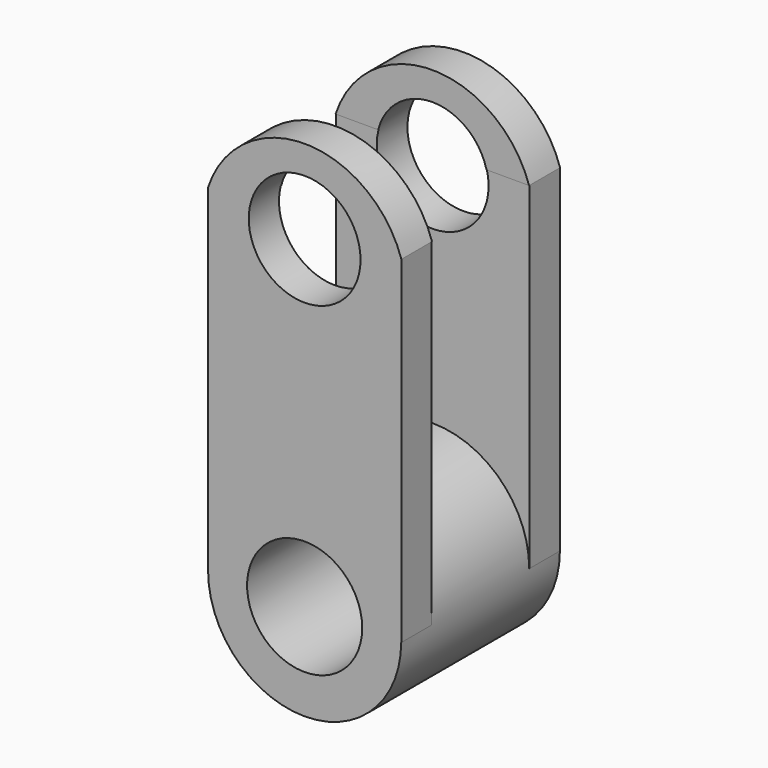
from build123d import *

# Parameters (mm, degrees)
F0_R           = 17.4912065647
F2_DEPTH       = 35.941
F1_W           = 6.9445110857
F1_H           = 61.1279271543
F3_DEPTH       = 17.526
F3_DEPTH_BACK  = 17.526
F1_W_2         = 6.845775526
F4_DEPTH       = 17.526
F4_DEPTH_BACK  = 17.526
F6_DEPTH       = 35.941
F8_DEPTH       = 25.4
F8_DEPTH_BACK  = 25.4
F9_R           = 10.1290533854
F9_R_2         = 10.4269018425
F10_DEPTH      = 38.1
F10_DEPTH_BACK = 38.1


with BuildPart() as f2:
    # F0 (on Front) → F2 (new body)
    with BuildSketch(Plane.XZ):
        Circle(F0_R)
    extrude(amount=-F2_DEPTH)

    # F1 (on Right) → F3 (join, two sides)
    with BuildSketch(Plane.YZ) as f3_sk:
        with Locations((32.4680674821, 30.5639635772)):
            Rectangle(F1_W, F1_H)
    extrude(amount=F3_DEPTH)
    extrude(f3_sk.sketch, amount=-F3_DEPTH_BACK)

    # F1 (on Right) → F4 (join, two sides)
    with BuildSketch(Plane.YZ) as f4_sk:
        with Locations((3.422887763, 30.5639635772)):
            Rectangle(F1_W_2, F1_H)
        with Locations((32.4680674821, 30.5639635772)):
            Rectangle(F1_W, F1_H)
    extrude(amount=F4_DEPTH)
    extrude(f4_sk.sketch, amount=-F4_DEPTH_BACK)

    # F5 (on face) → F6 (join)
    with BuildSketch(Plane.XZ):
        with BuildLine():
            Line((-17.526, 61.1279271543), (17.526, 61.1279271543))
            ThreePointArc((17.526, 61.1279271543), (0, 73.8669370431), (-17.526, 61.1279271543))
        make_face()
    extrude(amount=-F6_DEPTH)

    # F7 (on Right) → F8 (cut, two sides)
    with BuildSketch(Plane.YZ) as f8_sk:
        Polygon((6.9377436303, 74.695661664), (6.9377436303, 60.9454773366), (28.9229359478, 60.8699284494), (28.9229359478, 74.2423608899), align=None)
    extrude(amount=F8_DEPTH, mode=Mode.SUBTRACT)
    extrude(f8_sk.sketch, amount=-F8_DEPTH_BACK, mode=Mode.SUBTRACT)

    # F9 (on face) → F10 (cut, two sides)
    with BuildSketch(Plane.XZ) as f10_sk:
        with Locations((0, 58.616951108)):
            Circle(F9_R)
        Circle(F9_R_2)
    extrude(amount=F10_DEPTH, mode=Mode.SUBTRACT)
    extrude(f10_sk.sketch, amount=-F10_DEPTH_BACK, mode=Mode.SUBTRACT)


solid = f2.part
